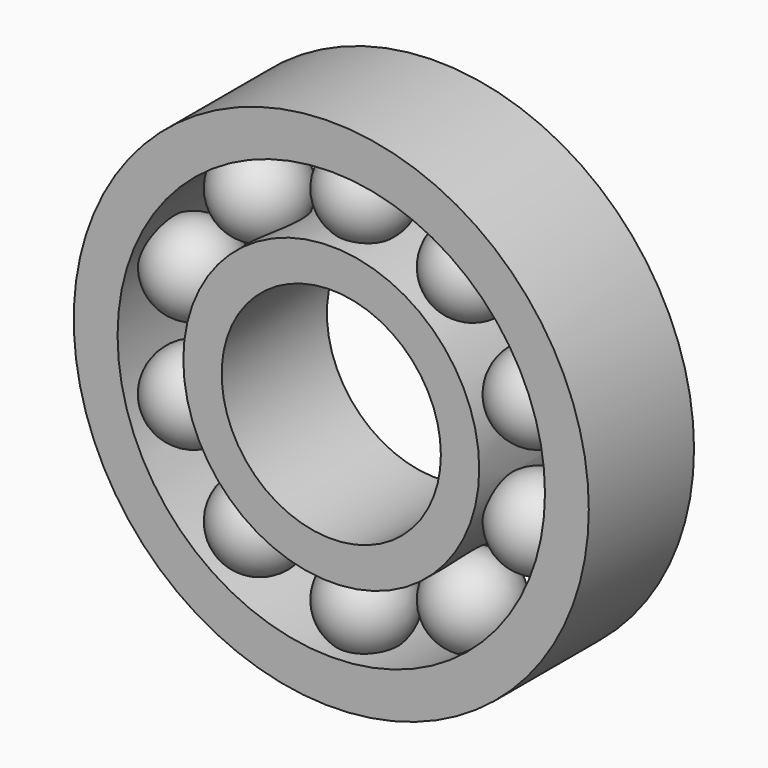
from build123d import *

# Parameters (mm, degrees)
F0_R     = 13.5
F0_R_2   = 10
F1_DEPTH = 12
F0_R_3   = 23.5
F0_R_4   = 19.5
F6_COUNT = 10


with BuildPart() as f1:
    # F0 (on Front) → F1 (new body)
    with BuildSketch(Plane.XZ):
        Circle(F0_R)
        Circle(F0_R_2, mode=Mode.SUBTRACT)
    extrude(amount=-F1_DEPTH)



with BuildPart() as f1b:
    # F0 (on Front) → F1, piece 2 (new body)
    with BuildSketch(Plane.XZ):
        Circle(F0_R_3)
        Circle(F0_R_4, mode=Mode.SUBTRACT)
    extrude(amount=-F1_DEPTH)


with BuildPart() as f1_1:
    add(f1.part)

    add(f1b.part)  # F4 merges F1b
    # F3 (on offset) → F4 (revolve)
    with BuildSketch(Plane.XZ.offset(-4)):
        with BuildLine():
            Line((0, 12.534333393), (0, 20.534333393))
            ThreePointArc((0, 20.534333393), (-4, 16.534333393), (0, 12.534333393))
        make_face()
    revolve(axis=Axis((0, 4, 16.534333393), (0, 0, -1)))

    # F6: F1 ×10 about axis
    f6_axis = Axis((0, 26.1891670525, 0), (0, 1, 0))


with BuildPart() as f1_2:
    add(f1_1.part)
    for i in range(1, F6_COUNT):
        add(f1_1.part.rotate(f6_axis, i * 360 / F6_COUNT))


solid = f1_2.part
